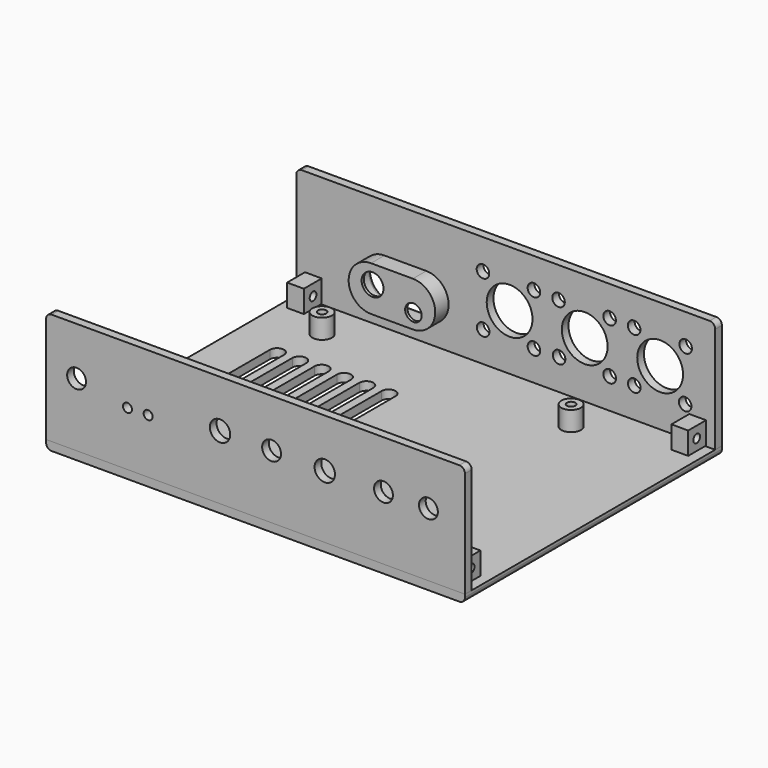
from build123d import *

# Parameters (mm, degrees)
SKETCH_W        = 150
SKETCH_H        = 115
PAD_DEPTH       = 3
SKETCH001_W     = 150
SKETCH001_H     = 3
PAD001_DEPTH    = 40
SKETCH002_R     = 3.5
SKETCH002_R_2   = 1.5
PAD002_DEPTH    = 7
SKETCH003_R     = 8.2
SKETCH003_R_2   = 2.25
POCKET_DEPTH    = 5
SKETCH004_R     = 3.65
SKETCH004_R_2   = 1.6
POCKET001_DEPTH = 5
PAD003_DEPTH    = 9
POCKET002_DEPTH = 8
SKETCH007_R     = 2.956815
SKETCH007_R_2   = 3.91912
POCKET003_DEPTH = 5
SKETCH008_R     = 3.375
POCKET004_DEPTH = 5
POCKET005_DEPTH = 5
SKETCH012_W     = 6
SKETCH012_H     = 8
PAD006_DEPTH    = 8
SKETCH013_W     = 6
SKETCH013_H     = 8
PAD007_DEPTH    = 8
SKETCH016_R     = 1.5
POCKET008_DEPTH = 10
SKETCH017_R     = 1.5
POCKET009_DEPTH = 10
FILLET001_R     = 2
FILLET002_R     = 1.5


with BuildPart() as part:
    # Sketch → Pad (new body)
    with BuildSketch(Plane.XY):
        with Locations((99.883204, -84.177484)):
            Rectangle(SKETCH_W, SKETCH_H)
    extrude(amount=PAD_DEPTH)

    # Sketch001 (on Face6 of Pad) → Pad001 (join)
    with BuildSketch(Plane.XY.offset(3)):
        with Locations((99.883211, -140.17749)):
            Rectangle(SKETCH001_W, SKETCH001_H)
        with Locations((99.883211, -28.1775)):
            Rectangle(SKETCH001_W, SKETCH001_H)
    extrude(amount=PAD001_DEPTH)

    # Sketch002 (on Face5 of Pad001) → Pad002 (join)
    with BuildSketch(Plane.XY.offset(3)):
        with Locations((45.316391, -43.665684)):
            Circle(SKETCH002_R)
        with Locations((45.316391, -43.665684)):
            Circle(SKETCH002_R_2, mode=Mode.SUBTRACT)
        with Locations((134.578049, -43.803013)):
            Circle(SKETCH002_R)
        with Locations((134.578049, -43.803013)):
            Circle(SKETCH002_R_2, mode=Mode.SUBTRACT)
        with Locations((45.316391, -133.064651)):
            Circle(SKETCH002_R)
        with Locations((45.316391, -133.064651)):
            Circle(SKETCH002_R_2, mode=Mode.SUBTRACT)
        with Locations((134.578049, -132.927338)):
            Circle(SKETCH002_R)
        with Locations((134.578049, -132.927338)):
            Circle(SKETCH002_R_2, mode=Mode.SUBTRACT)
    extrude(amount=PAD002_DEPTH)

    # Sketch003 (on Face8 of Pad002) → Pocket (cut)
    with BuildSketch(Plane(origin=(0, -26.6775, 0), x_dir=(-1, 0, 0), z_dir=(0, 1, 0))):
        with Locations((-155.160995, 22.957462)):
            Circle(SKETCH003_R)
        with Locations((-128.150894, 23.01816)):
            Circle(SKETCH003_R)
        with Locations((-164.297668, 32.157272)):
            Circle(SKETCH003_R_2)
        with Locations((-145.858627, 32.062714)):
            Circle(SKETCH003_R_2)
        with Locations((-164.113113, 13.90062)):
            Circle(SKETCH003_R_2)
        with Locations((-145.905151, 13.821107)):
            Circle(SKETCH003_R_2)
        with Locations((-137.079453, 32.188087)):
            Circle(SKETCH003_R_2)
        with Locations((-137.091354, 13.88285)):
            Circle(SKETCH003_R_2)
        with Locations((-118.778183, 32.004562)):
            Circle(SKETCH003_R_2)
        with Locations((-118.969612, 14.010464)):
            Circle(SKETCH003_R_2)
        with Locations((-109.972557, 13.819037)):
            Circle(SKETCH003_R_2)
        with Locations((-109.969048, 32.209045)):
            Circle(SKETCH003_R_2)
        with Locations((-91.723251, 32.195992)):
            Circle(SKETCH003_R_2)
        with Locations((-91.787064, 13.88285)):
            Circle(SKETCH003_R_2)
        with Locations((-101.261856, 22.888664)):
            Circle(SKETCH003_R)
    extrude(amount=-POCKET_DEPTH, mode=Mode.SUBTRACT)

    # Sketch004 (on Face19 of Pocket) → Pocket001 (cut)
    with BuildSketch(Plane.XZ.offset(141.67749)):
        with Locations((87.170862, 25.966157)):
            Circle(SKETCH004_R)
        with Locations((124.674583, 25.581327)):
            Circle(SKETCH004_R)
        with Locations((61.41629, 22.568558)):
            Circle(SKETCH004_R_2)
        with Locations((54.032642, 22.454962)):
            Circle(SKETCH004_R_2)
    extrude(amount=-POCKET001_DEPTH, mode=Mode.SUBTRACT)

    # Sketch005 (on Face8 of Pocket001) → Pad003 (join)
    with BuildSketch(Plane(origin=(0, -26.6775, 0), x_dir=(-1, 0, 0), z_dir=(0, 1, 0))):
        with BuildLine():
            ThreePointArc((-71.425017, 25.728505), (-79.425017, 17.728505), (-71.425017, 9.728505))
            Line((-71.425017, 9.728505), (-56.425017, 9.728505))
            ThreePointArc((-56.425017, 9.728505), (-48.425017, 17.728505), (-56.425017, 25.728505))
            Line((-71.425017, 25.728505), (-56.425017, 25.728505))
        make_face()
    extrude(amount=-PAD003_DEPTH)

    # Sketch006 (on Face58 of Pad003) → Pocket002 (cut)
    with BuildSketch(Plane(origin=(0, -26.6775, 0), x_dir=(-1, 0, 0), z_dir=(0, 1, 0))):
        with BuildLine():
            ThreePointArc((-71.144104, 24.608639), (-78.144104, 17.608639), (-71.144104, 10.608639))
            Line((-71.144104, 10.608639), (-56.644104, 10.608639))
            ThreePointArc((-56.644104, 10.608639), (-49.644104, 17.608639), (-56.644104, 24.608639))
            Line((-71.144104, 24.608639), (-56.644104, 24.608639))
        make_face()
    extrude(amount=-POCKET002_DEPTH, mode=Mode.SUBTRACT)

    # Sketch007 (on Face54 of Pocket002) → Pocket003 (cut)
    with BuildSketch(Plane(origin=(0, -34.6775, 0), x_dir=(-1, 0, 0), z_dir=(0, 1, 0))):
        with Locations((-71.614014, 15.088903)):
            Circle(SKETCH007_R)
        with Locations((-56.978443, 19.166483)):
            Circle(SKETCH007_R_2)
    extrude(amount=-POCKET003_DEPTH, mode=Mode.SUBTRACT)

    # Sketch008 (on Face19 of Pocket003) → Pocket004 (cut)
    with BuildSketch(Plane.XZ.offset(141.67749)):
        with Locations((161.787576, 25.778181)):
            Circle(SKETCH008_R)
        with Locations((35.800133, 25.778181)):
            Circle(SKETCH008_R)
        with Locations((105.628538, 25.778181)):
            Circle(SKETCH008_R)
        with Locations((145.6931, 25.778181)):
            Circle(SKETCH008_R)
    extrude(amount=-POCKET004_DEPTH, mode=Mode.SUBTRACT)

    # Sketch009 (on Face5 of Pocket004) → Pocket005 (cut)
    with BuildSketch(Plane.XY.offset(3)):
        with BuildLine():
            ThreePointArc((39.81937, -90.12404), (42.31937, -92.62404), (44.81937, -90.12404))
            Line((44.81937, -90.12404), (44.81937, -60.12404))
            ThreePointArc((44.81937, -60.12404), (42.31937, -57.62404), (39.81937, -60.12404))
            Line((39.81937, -90.12404), (39.81937, -60.12404))
        make_face()
        with BuildLine():
            ThreePointArc((47.81937, -90.124041), (50.31937, -92.624041), (52.81937, -90.124041))
            Line((52.81937, -90.124041), (52.81937, -60.124041))
            ThreePointArc((52.81937, -60.124041), (50.31937, -57.624041), (47.81937, -60.124041))
            Line((47.81937, -90.124041), (47.81937, -60.124041))
        make_face()
        with BuildLine():
            ThreePointArc((55.81937, -90.12404), (58.31937, -92.62404), (60.81937, -90.12404))
            Line((60.81937, -90.12404), (60.81937, -60.12404))
            ThreePointArc((60.81937, -60.12404), (58.31937, -57.62404), (55.81937, -60.12404))
            Line((55.81937, -90.12404), (55.81937, -60.12404))
        make_face()
        with BuildLine():
            ThreePointArc((63.81937, -90.124041), (66.31937, -92.624041), (68.81937, -90.124041))
            Line((68.81937, -90.124041), (68.81937, -60.124041))
            ThreePointArc((68.81937, -60.124041), (66.31937, -57.624041), (63.81937, -60.124041))
            Line((63.81937, -90.124041), (63.81937, -60.124041))
        make_face()
        with BuildLine():
            ThreePointArc((71.81937, -90.12404), (74.31937, -92.62404), (76.81937, -90.12404))
            Line((76.81937, -90.12404), (76.81937, -60.12404))
            ThreePointArc((76.81937, -60.12404), (74.31937, -57.62404), (71.81937, -60.12404))
            Line((71.81937, -90.12404), (71.81937, -60.12404))
        make_face()
        with BuildLine():
            ThreePointArc((79.81937, -90.12404), (82.31937, -92.62404), (84.81937, -90.12404))
            Line((84.81937, -90.12404), (84.81937, -60.12404))
            ThreePointArc((84.81937, -60.12404), (82.31937, -57.62404), (79.81937, -60.12404))
            Line((79.81937, -90.12404), (79.81937, -60.12404))
        make_face()
    extrude(amount=-POCKET005_DEPTH, mode=Mode.SUBTRACT)

    # Sketch012 (on Face35 of Pocket005) → Pad006 (join)
    with BuildSketch(Plane.XZ.offset(29.6775)):
        with Locations((168.598978, 7.25481)):
            Rectangle(SKETCH012_W, SKETCH012_H)
        with Locations((30.984795, 7.198986)):
            Rectangle(SKETCH012_W, SKETCH012_H)
    extrude(amount=PAD006_DEPTH)

    # Sketch013 (on Face36 of Pad006) → Pad007 (join)
    with BuildSketch(Plane(origin=(0, -138.67749, 0), x_dir=(-1, 0, 0), z_dir=(0, 1, 0))):
        with Locations((-30.980019, 7.152398)):
            Rectangle(SKETCH013_W, SKETCH013_H)
        with Locations((-168.610458, 7.248077)):
            Rectangle(SKETCH013_W, SKETCH013_H)
    extrude(amount=PAD007_DEPTH)

    # Sketch016 (on Face73 of Pad007) → Pocket008 (cut)
    with BuildSketch(Plane(origin=(27.984795, 0, 0), x_dir=(0, -1, 0), z_dir=(-1, 0, 0))):
        with Locations((33.567612, 7.141162)):
            Circle(SKETCH016_R)
        with Locations((134.571213, 7.150399)):
            Circle(SKETCH016_R)
    extrude(amount=-POCKET008_DEPTH, mode=Mode.SUBTRACT)

    # Sketch017 (on Face89 of Pocket008) → Pocket009 (cut)
    with BuildSketch(Plane.YZ.offset(171.610458)):
        with Locations((-134.832733, 7.230164)):
            Circle(SKETCH017_R)
        with Locations((-33.852489, 7.223049)):
            Circle(SKETCH017_R)
    extrude(amount=-POCKET009_DEPTH, mode=Mode.SUBTRACT)

    # Fillet001
    fillet001_edges = [part.edges().sort_by_distance(p)[0] for p in [
        (24.883204, -84.177484, 0),
        (24.883211, -28.1775, 43),
        (24.883211, -140.17749, 43),
        (174.883211, -140.17749, 43),
        (174.883204, -84.177484, 0),
        (174.883211, -28.1775, 43),
    ]]
    fillet(fillet001_edges, radius=FILLET001_R)

    # Fillet002
    fillet002_edges = [part.edges().sort_by_distance(p)[0] for p in [
        (63.894104, -26.6775, 24.608639),
        (49.644104, -26.6775, 17.608639),
        (63.894104, -26.6775, 10.608639),
        (78.144104, -26.6775, 17.608639),
    ]]
    fillet(fillet002_edges, radius=FILLET002_R)


solid = part.part
